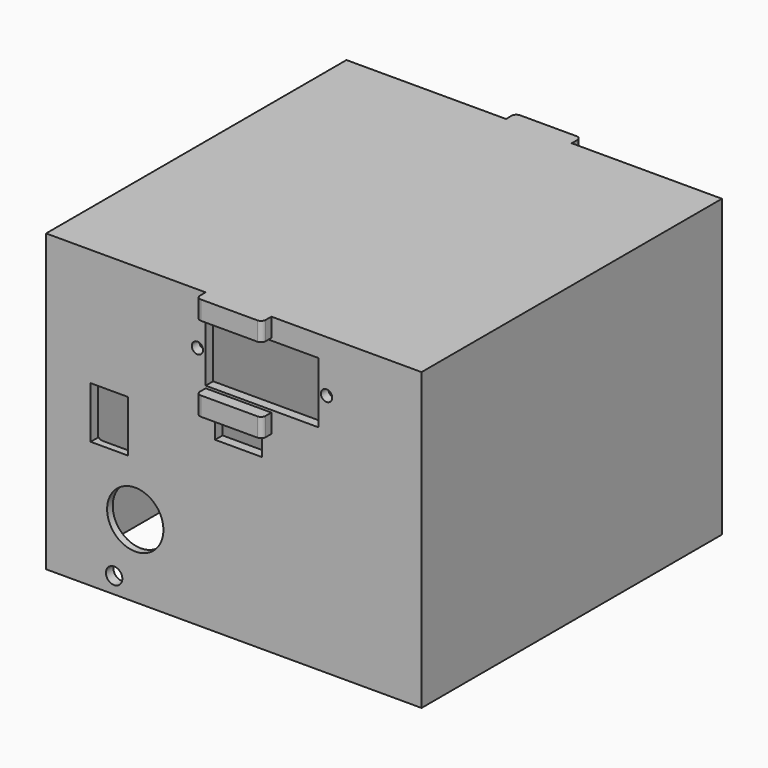
from build123d import *

# Parameters (mm, degrees)
BOX065_W               = 10
BOX065_H               = 94
BOX065_DEPTH           = 4
BOX062_W               = 14
BOX062_H               = 3
BOX062_DEPTH           = 4
BOX061_W               = 14
BOX061_H               = 3
BOX061_DEPTH           = 4
BOX063_W               = 14
BOX063_H               = 3
BOX063_DEPTH           = 4
BOX064_W               = 14
BOX064_H               = 3
BOX064_DEPTH           = 4
SKETCH017_R            = 1.2
SKETCH017_W            = 24
SKETCH017_H            = 13
PAD012_DEPTH           = 140
CYLINDER080_R          = 6
CYLINDER080_DEPTH      = 31
CYLINDER080_ROLL_ANGLE = 90
CYLINDER078_R          = 1.75
CYLINDER078_DEPTH      = 31
CYLINDER078_ROLL_ANGLE = 90
BOX059_W               = 17
BOX059_H               = 77
BOX059_DEPTH           = 49
FILLET018013005_R      = 2
CYLINDER083_R          = 4
CYLINDER083_DEPTH      = 31
CYLINDER083_ROLL_ANGLE = 90
CYLINDER079_R          = 1.75
CYLINDER079_DEPTH      = 31
CYLINDER079_ROLL_ANGLE = 90
BOX058_W               = 8
BOX058_H               = 24
BOX058_DEPTH           = 11
BOX057_W               = 76
BOX057_H               = 76
BOX057_DEPTH           = 66
FILLET018013003_R      = 3.5
BOX060_W               = 80
BOX060_H               = 80
BOX060_DEPTH           = 63
FILLET018013006_R      = 1


with BuildPart() as cubo:
    # Box065 → Box065 (new body)
    with BuildSketch(Plane(origin=(13, -11, 104), x_dir=(1, 0, 0), z_dir=(0, 0, 1))):
        with Locations((5, 47)):
            Rectangle(BOX065_W, BOX065_H)
    extrude(amount=BOX065_DEPTH)


with BuildPart() as cubo009:
    # Box062 → Box062 (new body)
    with BuildSketch(Plane(origin=(11, 75.5, 127), x_dir=(1, 0, 0), z_dir=(0, 0, 1))):
        with Locations((7, 1.5)):
            Rectangle(BOX062_W, BOX062_H)
    extrude(amount=BOX062_DEPTH)


with BuildPart() as cubo008:
    # Box061 → Box061 (new body)
    with BuildSketch(Plane(origin=(11, 75.5, 109), x_dir=(1, 0, 0), z_dir=(0, 0, 1))):
        with Locations((7, 1.5)):
            Rectangle(BOX061_W, BOX061_H)
    extrude(amount=BOX061_DEPTH)


with BuildPart() as cubo010:
    # Box063 → Box063 (new body)
    with BuildSketch(Plane(origin=(11, -6.5, 109), x_dir=(1, 0, 0), z_dir=(0, 0, 1))):
        with Locations((7, 1.5)):
            Rectangle(BOX063_W, BOX063_H)
    extrude(amount=BOX063_DEPTH)


with BuildPart() as cubo011:
    # Box064 → Box064 (new body)
    with BuildSketch(Plane(origin=(11, -6.5, 127), x_dir=(1, 0, 0), z_dir=(0, 0, 1))):
        with Locations((7, 1.5)):
            Rectangle(BOX064_W, BOX064_H)
    extrude(amount=BOX064_DEPTH)


with BuildPart() as pad012:
    # Sketch017 → Pad012 (new body)
    with BuildSketch(Plane(origin=(-0.25, -35, 0), x_dir=(1, 0, 0), z_dir=(0, -1, 0))):
        with Locations((37, 120)):
            Circle(SKETCH017_R)
        with Locations((9.5, 120)):
            Circle(SKETCH017_R)
        with Locations((23.25, 120)):
            Rectangle(SKETCH017_W, SKETCH017_H)
    extrude(amount=-PAD012_DEPTH)


with BuildPart() as cylinder107:
    # Cylinder080 → Cylinder080 (new body)
    with BuildSketch(Plane.XY):
        Circle(CYLINDER080_R)
    extrude(amount=CYLINDER080_DEPTH)


with BuildPart() as cylinder107_1:
    # Cylinder080 roll: moved
    add(cylinder107.part.rotate(Axis((0, 0, 0), (1, 0, 0)), CYLINDER080_ROLL_ANGLE))


with BuildPart() as cylinder107_2:
    # Cylinder080 placement: moved
    add(cylinder107_1.part.moved(Location((-4, 11, 83.5))))


with BuildPart() as cylinder105:
    # Cylinder078 → Cylinder078 (new body)
    with BuildSketch(Plane.XY):
        Circle(CYLINDER078_R)
    extrude(amount=CYLINDER078_DEPTH)


with BuildPart() as cylinder105_1:
    # Cylinder078 roll: moved
    add(cylinder105.part.rotate(Axis((0, 0, 0), (1, 0, 0)), CYLINDER078_ROLL_ANGLE))


with BuildPart() as cylinder105_2:
    # Cylinder078 placement: moved
    add(cylinder105_1.part.moved(Location((-8.5, 11, 71.5))))


with BuildPart() as fillet018013005:
    # Box059 → Box059 (new body)
    with BuildSketch(Plane(origin=(-14, -2.5, 75), x_dir=(1, 0, 0), z_dir=(0, 0, 1))):
        with Locations((8.5, 38.5)):
            Rectangle(BOX059_W, BOX059_H)
    extrude(amount=BOX059_DEPTH)

    # Fillet018013005
    fillet018013005_edges = [fillet018013005.edges().sort_by_distance(p)[0] for p in [
        (-14, -2.5, 99.5),
        (-14, 36, 124),
        (-14, 74.5, 99.5),
        (-14, 36, 75),
        (3, -2.5, 99.5),
        (3, 36, 124),
        (3, 74.5, 99.5),
        (3, 36, 75),
        (-5.5, -2.5, 75),
        (-5.5, -2.5, 124),
        (-5.5, 74.5, 75),
        (-5.5, 74.5, 124),
    ]]
    fillet(fillet018013005_edges, radius=FILLET018013005_R)


with BuildPart() as cylinder108:
    # Cylinder083 → Cylinder083 (new body)
    with BuildSketch(Plane.XY):
        Circle(CYLINDER083_R)
    extrude(amount=CYLINDER083_DEPTH)


with BuildPart() as cylinder108_1:
    # Cylinder083 roll: moved
    add(cylinder108.part.rotate(Axis((0, 0, 0), (1, 0, 0)), CYLINDER083_ROLL_ANGLE))


with BuildPart() as cylinder108_2:
    # Cylinder083 placement: moved
    add(cylinder108_1.part.moved(Location((-7, 80, 89.6))))


with BuildPart() as cylinder106:
    # Cylinder079 → Cylinder079 (new body)
    with BuildSketch(Plane.XY):
        Circle(CYLINDER079_R)
    extrude(amount=CYLINDER079_DEPTH)


with BuildPart() as cylinder106_1:
    # Cylinder079 roll: moved
    add(cylinder106.part.rotate(Axis((0, 0, 0), (1, 0, 0)), CYLINDER079_ROLL_ANGLE))


with BuildPart() as cylinder106_2:
    # Cylinder079 placement: moved
    add(cylinder106_1.part.moved(Location((-8.5, 80, 71.5))))


with BuildPart() as fusion061:
    # Box058 → Box058 (new body)
    with BuildSketch(Plane(origin=(-13.5, -13, 95), x_dir=(1, 0, 0), z_dir=(0, 0, 1))):
        with Locations((4, 12)):
            Rectangle(BOX058_W, BOX058_H)
    extrude(amount=BOX058_DEPTH)

    # Fusion061: union Cylinder107, Cylinder105, Fillet018013005, Cylinder108, Cylinder106
    add(cylinder107_2.part)
    add(cylinder105_2.part)
    add(fillet018013005.part)
    add(cylinder108_2.part)
    add(cylinder106_2.part)


with BuildPart() as fillet018013003:
    # Box057 → Box057 (new body)
    with BuildSketch(Plane(origin=(-21, -2, 87), x_dir=(1, 0, 0), z_dir=(0, 0, 1))):
        with Locations((38, 38)):
            Rectangle(BOX057_W, BOX057_H)
    extrude(amount=BOX057_DEPTH)

    # Fillet018013003
    fillet018013003_edges = [fillet018013003.edges().sort_by_distance(p)[0] for p in [
        (-21, -2, 120),
        (-21, 36, 153),
        (-21, 74, 120),
        (55, -2, 120),
        (55, 36, 153),
        (55, 74, 120),
        (17, -2, 153),
        (17, 74, 153),
    ]]
    fillet(fillet018013003_edges, radius=FILLET018013003_R)


with BuildPart() as fillet018013003_1:
    # Fillet018013003 placement: moved
    add(fillet018013003.part.moved(Location((0, 0, -24))))


with BuildPart() as obj1:
    # Box060 → Box060 (new body)
    with BuildSketch(Plane(origin=(-23, -4, 68), x_dir=(1, 0, 0), z_dir=(0, 0, 1))):
        with Locations((40, 40)):
            Rectangle(BOX060_W, BOX060_H)
    extrude(amount=BOX060_DEPTH)

    # Cut103: cut Fillet018013003
    add(fillet018013003_1.part, mode=Mode.SUBTRACT)

    # Cut104: cut Fusion061
    add(fusion061.part, mode=Mode.SUBTRACT)

    # Cut105: cut Pad012
    add(pad012.part, mode=Mode.SUBTRACT)

    # Fusion062: union Cubo009, Cubo008, Cubo010, Cubo011
    add(cubo009.part)
    add(cubo008.part)
    add(cubo010.part)
    add(cubo011.part)

    # Fillet018013006
    fillet018013006_edges = [obj1.edges().sort_by_distance(p)[0] for p in [
        (25, -6.5, 129),
        (11, -6.5, 129),
        (11, -6.5, 111),
        (25, -6.5, 111),
        (25, 78.5, 129),
        (11, 78.5, 129),
        (25, 78.5, 111),
        (11, 78.5, 111),
    ]]
    fillet(fillet018013006_edges, radius=FILLET018013006_R)

    # Cut107: cut Cubo
    add(cubo.part, mode=Mode.SUBTRACT)


solid = obj1.part
